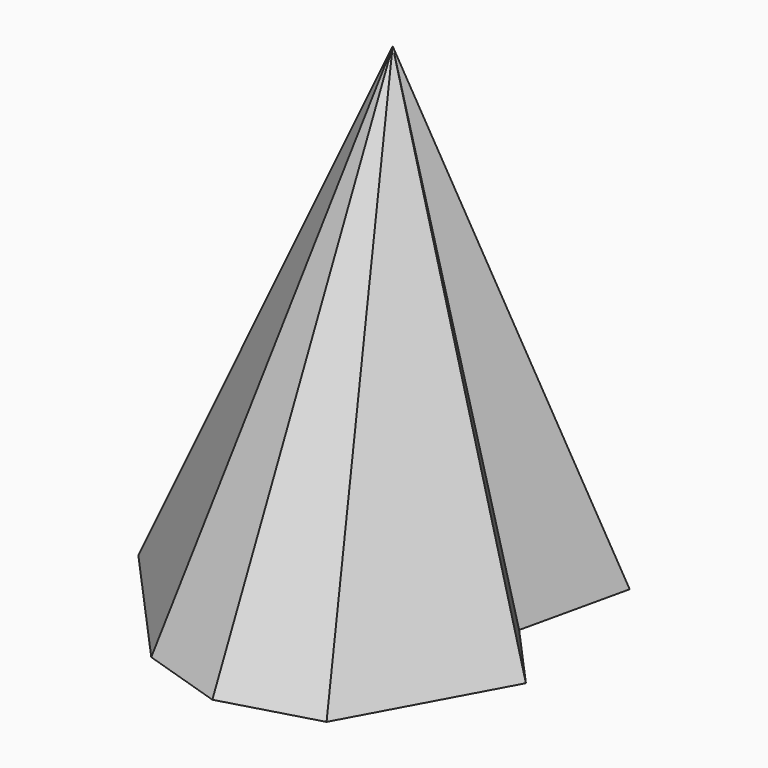
from build123d import *


with BuildPart() as f3:
    # F0 (on Top) → F3 section 0
    with BuildSketch(Plane.XY, mode=Mode.PRIVATE) as f3_s0:
        Polygon((28.473403, 25.65019), (0, 0), (-37.869632, 25.65019), (-28.631995, 3.395881), (-40.844899, -14.635104), (-16.992594, -41.112736), (0, -46.57134), (19.235764, -41.112736), (35.906301, -10.448431), (23.434689, 3.395881), align=None)
    loft([Vertex(0, 0, 100), f3_s0.sketch])


solid = f3.part
